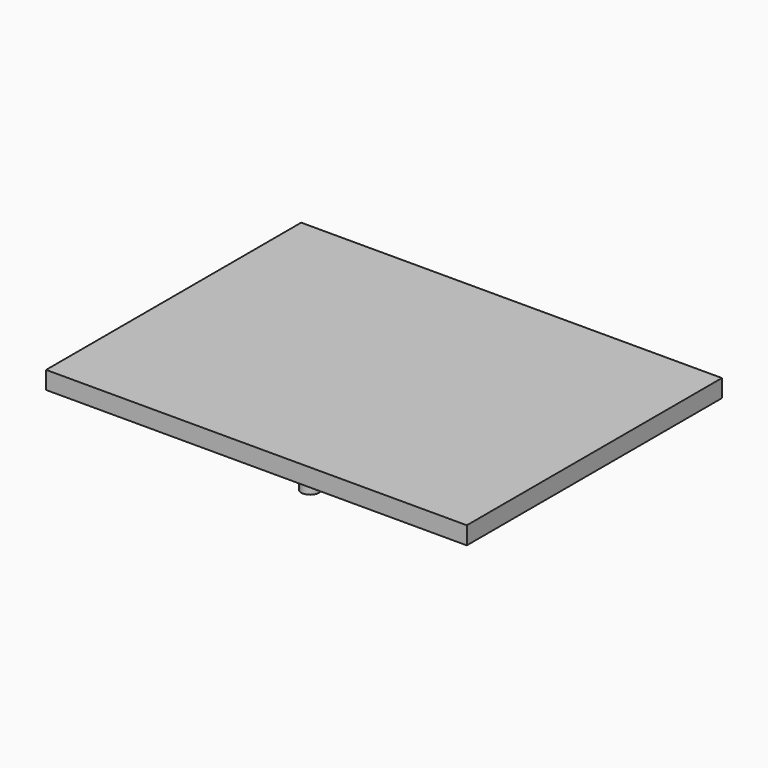
from build123d import *

# Parameters (mm, degrees)
SKETCH034_R      = 1
SKETCH034_W      = 12.5
SKETCH034_H      = 2.25
EXTRUDE032_DEPTH = 2
SKETCH033_W      = 47.5
SKETCH033_H      = 36
EXTRUDE031_DEPTH = 2


with BuildPart() as extrude032:
    # Sketch034 → Extrude032 (new body)
    with BuildSketch(Plane.XY.offset(-0.5)):
        with Locations((155.15, 11.2)):
            Circle(SKETCH034_R)
        with Locations((155.15, 26.45)):
            Circle(SKETCH034_R)
        with Locations((151.25, 30.225)):
            Rectangle(SKETCH034_W, SKETCH034_H)
    extrude(amount=-EXTRUDE032_DEPTH)


with BuildPart() as sensorsheet:
    # Sketch033 → Extrude031 (new body)
    with BuildSketch(Plane.XY.offset(1.5)):
        with Locations((151.25, 26.5)):
            Rectangle(SKETCH033_W, SKETCH033_H)
    extrude(amount=-EXTRUDE031_DEPTH)

    # Fusion009: union Extrude032
    add(extrude032.part)


solid = sensorsheet.part
